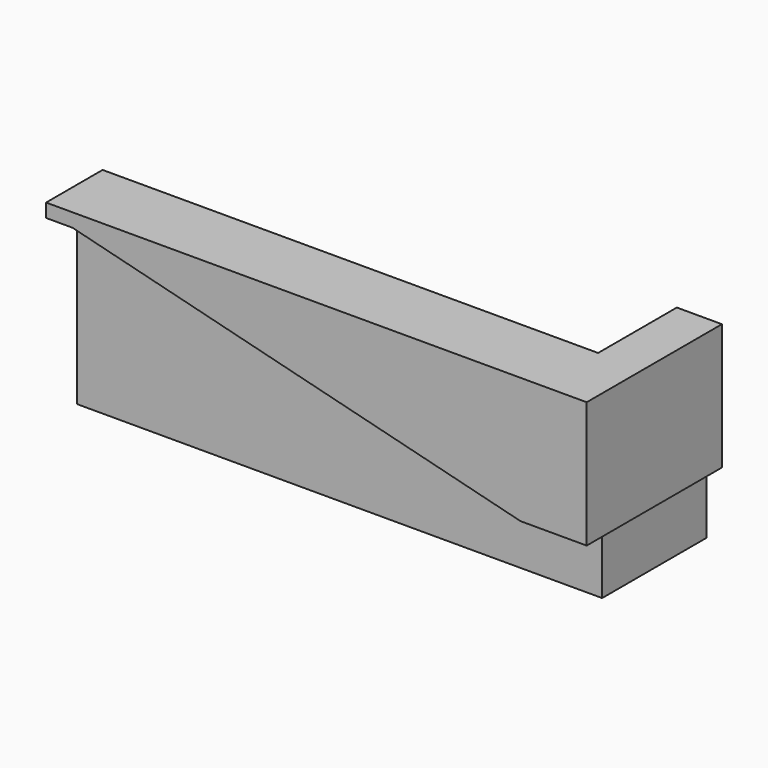
from build123d import *

# Parameters (mm, degrees)
F1_DEPTH = 50
F3_DEPTH = 10
F5_DEPTH = 4


with BuildPart() as f1:
    # F0 (on Top) → F1 (new body)
    with BuildSketch(Plane.XY):
        Polygon((-65.519929, 8.285898), (-65.519929, 0), (70.430085, 0), (70.430085, 33.757344), (62.757969, 33.757344), (62.757969, 8.285898), align=None)
    extrude(amount=F1_DEPTH)

    # F2 (on face) → F3 (join)
    with BuildSketch(Plane.XZ):
        Polygon((-65.519929, 50), (-65.519929, 46.481945), (-58.691744, 46.481945), (57.310753, 17.327877), (70.430085, 17.327877), (70.430085, 50), align=None)
    extrude(amount=F3_DEPTH)

    # F4 (on face) → F5 (join)
    with BuildSketch(Plane.YZ.offset(70.430085)):
        Polygon((33.757344, 50), (-10, 50), (-10, 17.327877), (0, 17.327877), (33.757344, 17.327877), align=None)
    extrude(amount=F5_DEPTH)


solid = f1.part
